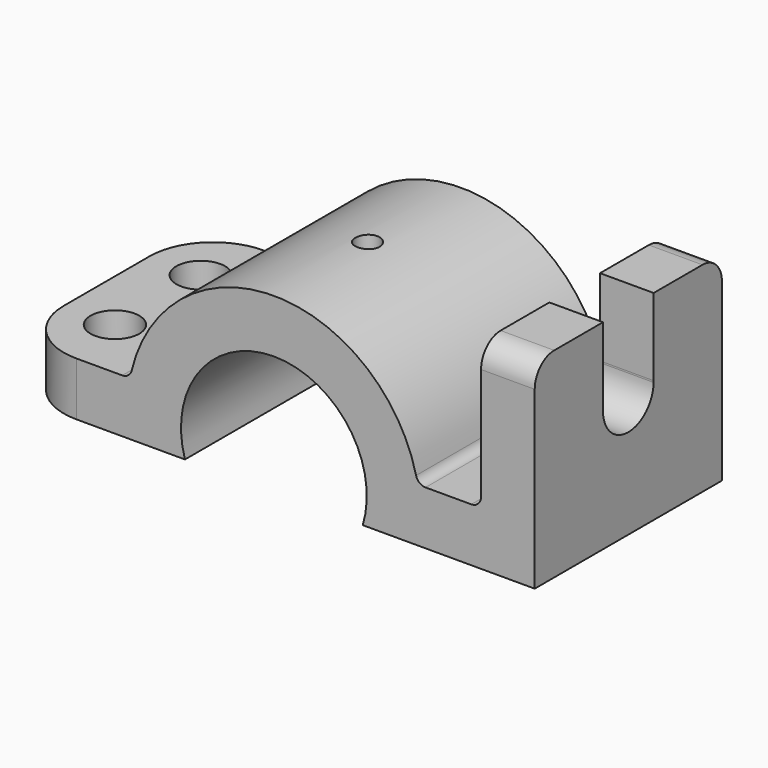
from build123d import *

# Parameters (mm, degrees)
F1_DEPTH      = 609.6
F2_R          = 63.5
F2_R_2        = 127
F3_DEPTH      = 901.701
F3_DEPTH_BACK = 139.701
F5_DEPTH      = 279.4
F6_R          = 127
F7_R          = 330.2


with BuildPart() as f1:
    # F0 (on Front) → F1 (new body, symmetric)
    with BuildSketch(Plane.XZ):
        with BuildLine():
            ThreePointArc((1079.5, 190.5), (1064.621024, 154.578976), (1028.7, 139.7))
            Line((1028.7, 139.7), (790.160484, 139.7))
            ThreePointArc((790.160484, 139.7), (758.729587, 150.590869), (740.775453, 178.59375))
            ThreePointArc((740.775453, 178.59375), (0, 762), (-740.775453, 178.59375))
            ThreePointArc((-740.775453, 178.59375), (-758.729587, 150.590869), (-790.160484, 139.7))
            Line((-790.160484, 139.7), (-1358.9, 139.7))
            Line((-1358.9, 139.7), (-1358.9, -139.7))
            Line((-1358.9, -139.7), (-463.264597, -139.7))
            ThreePointArc((-463.264597, -139.7), (0, 483.87), (463.264597, -139.7))
            Line((463.264597, -139.7), (1358.9, -139.7))
            Line((1358.9, -139.7), (1358.9, 901.7))
            Line((1358.9, 901.7), (1079.5, 901.7))
            Line((1079.5, 901.7), (1079.5, 190.5))
        make_face()
    extrude(amount=F1_DEPTH, both=True)

    # F2 (on Top) → F3 (cut, two sides)
    with BuildSketch(Plane.XY) as f3_sk:
        Circle(F2_R)
        with Locations((-1092.2, 279.4)):
            Circle(F2_R_2)
        with Locations((-1092.2, -279.4)):
            Circle(F2_R_2)
    extrude(amount=F3_DEPTH, mode=Mode.SUBTRACT)
    extrude(f3_sk.sketch, amount=-F3_DEPTH_BACK, mode=Mode.SUBTRACT)

    # F4 (on face) → F5 (cut, through all)
    with BuildSketch(Plane.YZ.offset(1358.9)):
        with BuildLine():
            Line((-165.049463, 491.215308), (-165.049463, 499.384692))
            ThreePointArc((-165.049463, 499.384692), (-165.1, 495.3), (-165.049463, 491.215308))
        make_face()
        with BuildLine():
            Line((-165.049463, 901.7), (-165.049463, 499.384692))
            Line((-165.049463, 499.384692), (-165.049463, 491.215308))
            ThreePointArc((-165.049463, 491.215308), (0, 330.2), (165.049463, 491.215308))
            Line((165.049463, 491.215308), (165.049463, 499.384692))
            Line((165.049463, 499.384692), (165.049463, 901.7))
            Line((165.049463, 901.7), (-165.049463, 901.7))
        make_face()
        with BuildLine():
            Line((165.049463, 499.384692), (165.049463, 491.215308))
            ThreePointArc((165.049463, 491.215308), (165.1, 495.3), (165.049463, 499.384692))
        make_face()
    extrude(amount=-F5_DEPTH, mode=Mode.SUBTRACT)

    # F6
    f6_edges = [f1.edges().sort_by_distance(p)[0] for p in [
        (1219.2, 609.6, 901.7),
        (1219.2, -609.6, 901.7),
    ]]
    fillet(f6_edges, radius=F6_R)

    # F7
    f7_edges = [f1.edges().sort_by_distance(p)[0] for p in [
        (-1358.9, 609.6, 0),
        (-1358.9, -609.6, 0),
    ]]
    fillet(f7_edges, radius=F7_R)


solid = f1.part
